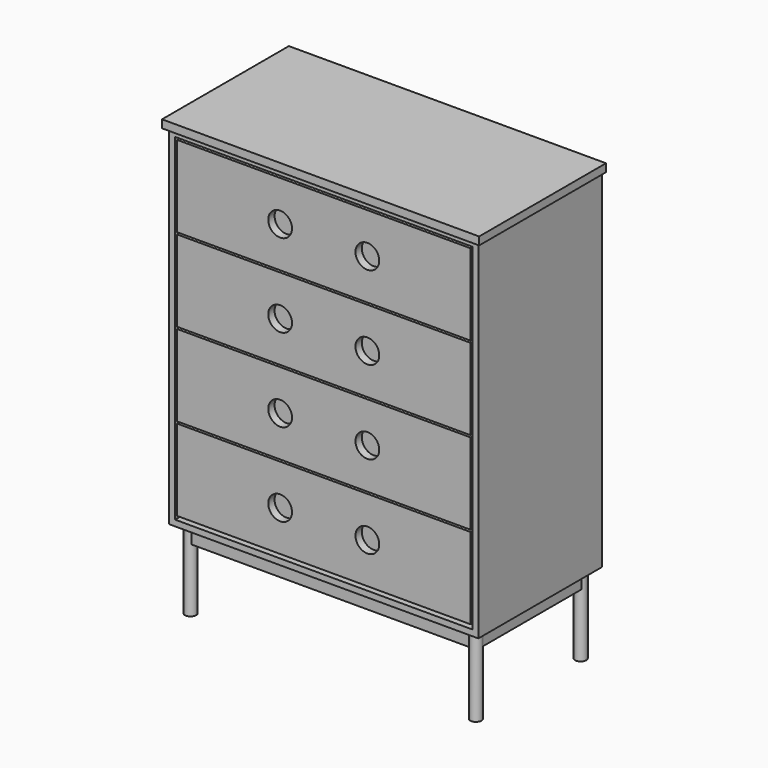
from build123d import *

# Parameters (mm, degrees)
F0_W     = 390
F0_H     = 900
F1_DEPTH = 780
F2_W     = 800
F2_H     = 400
F3_DEPTH = 20
F4_W     = 750
F4_H     = 850
F4_W_2   = 740
F4_H_2   = 205
F4_R     = 30
F5_DEPTH = 20
F6_W     = 740
F6_H     = 350
F6_W_2   = 700
F6_H_2   = 310
F7_DEPTH = 40
F8_R     = 14.142136
F9_DEPTH = 200


with BuildPart() as f1:
    # F0 (on Right) → F1 (new body)
    with BuildSketch(Plane.YZ):
        with Locations((195, 450)):
            Rectangle(F0_W, F0_H)
    extrude(amount=F1_DEPTH)

    # F2 (on face) → F3 (join)
    with BuildSketch(Plane.XY.offset(900)):
        with Locations((390, 190)):
            Rectangle(F2_W, F2_H)
    extrude(amount=-F3_DEPTH)

    # F4 (on face) → F5 (cut)
    with BuildSketch(Plane.XZ):
        with Locations((390, 440)):
            Rectangle(F4_W, F4_H)
        with Locations((390, 127.5)):
            Rectangle(F4_W_2, F4_H_2, mode=Mode.SUBTRACT)
        with Locations((390, 337.5)):
            Rectangle(F4_W_2, F4_H_2, mode=Mode.SUBTRACT)
        with Locations((390, 547.5)):
            Rectangle(F4_W_2, F4_H_2, mode=Mode.SUBTRACT)
        with Locations((390, 757.5)):
            Rectangle(F4_W_2, F4_H_2, mode=Mode.SUBTRACT)
        with Locations((280, 757.5)):
            Circle(F4_R)
        with Locations((500, 757.5)):
            Circle(F4_R)
        with Locations((280, 547.5)):
            Circle(F4_R)
        with Locations((500, 547.5)):
            Circle(F4_R)
        with Locations((280, 337.5)):
            Circle(F4_R)
        with Locations((500, 337.5)):
            Circle(F4_R)
        with Locations((280, 127.5)):
            Circle(F4_R)
        with Locations((500, 127.5)):
            Circle(F4_R)
    extrude(amount=-F5_DEPTH, mode=Mode.SUBTRACT)

    # F6 (on face) → F7 (join)
    with BuildSketch(Plane(origin=(0, 0, 0), x_dir=(1, 0, 0), z_dir=(0, 0, -1))):
        with Locations((390, -195)):
            Rectangle(F6_W, F6_H)
        with Locations((390, -195)):
            Rectangle(F6_W_2, F6_H_2, mode=Mode.SUBTRACT)
    extrude(amount=F7_DEPTH)

    # F8 (on face) → F9 (join)
    with BuildSketch(Plane(origin=(0, 0, 0), x_dir=(1, 0, 0), z_dir=(0, 0, -1))):
        with Locations((30, -30)):
            Circle(F8_R)
        with Locations((750, -30)):
            Circle(F8_R)
        with Locations((30, -360)):
            Circle(F8_R)
        with Locations((750, -360)):
            Circle(F8_R)
    extrude(amount=F9_DEPTH)


solid = f1.part
